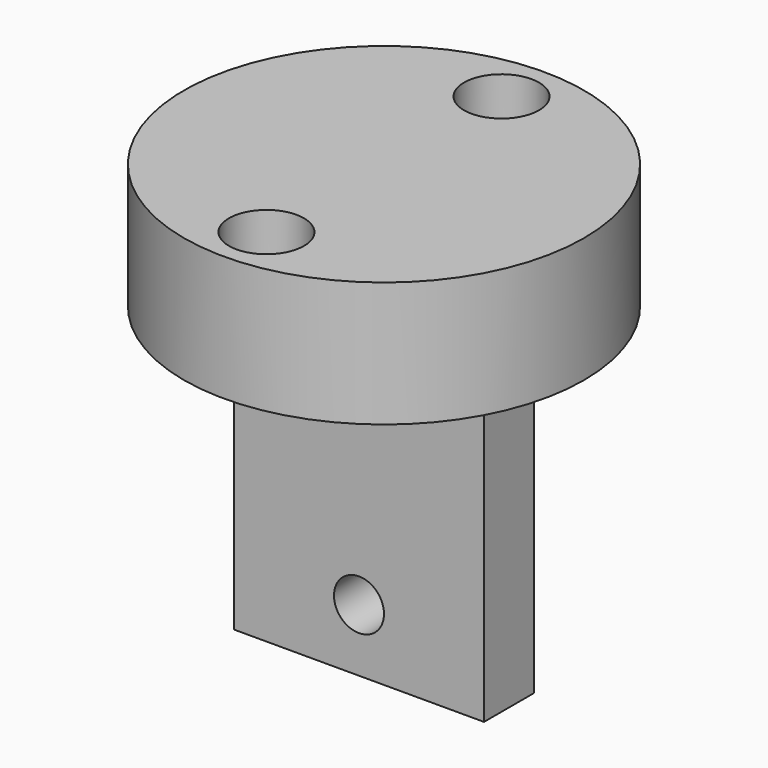
from build123d import *

# Parameters (mm, degrees)
F0_R     = 16
F0_R_2   = 3
F1_DEPTH = 10
F2_W     = 20
F2_H     = 5
F3_DEPTH = 25
F5_D     = 4


with BuildPart() as f1:
    # F0 (on Top) → F1 (new body)
    with BuildSketch(Plane.XY):
        Circle(F0_R)
        with Locations((0, -11.75)):
            Circle(F0_R_2, mode=Mode.SUBTRACT)
        with Locations((0, 11.75)):
            Circle(F0_R_2, mode=Mode.SUBTRACT)
    extrude(amount=F1_DEPTH)

    # F2 (on face) → F3 (join)
    with BuildSketch(Plane(origin=(0, 0, 0), x_dir=(1, 0, 0), z_dir=(0, 0, -1))):
        Rectangle(F2_W, F2_H)
    extrude(amount=F3_DEPTH)

    # F5 (through all)
    with Locations(Plane(origin=(0, 2.5, 0), x_dir=(-1, 0, 0), z_dir=(0, 1, 0))):
        with Locations((0, -20)):
            Hole(F5_D / 2)


solid = f1.part
